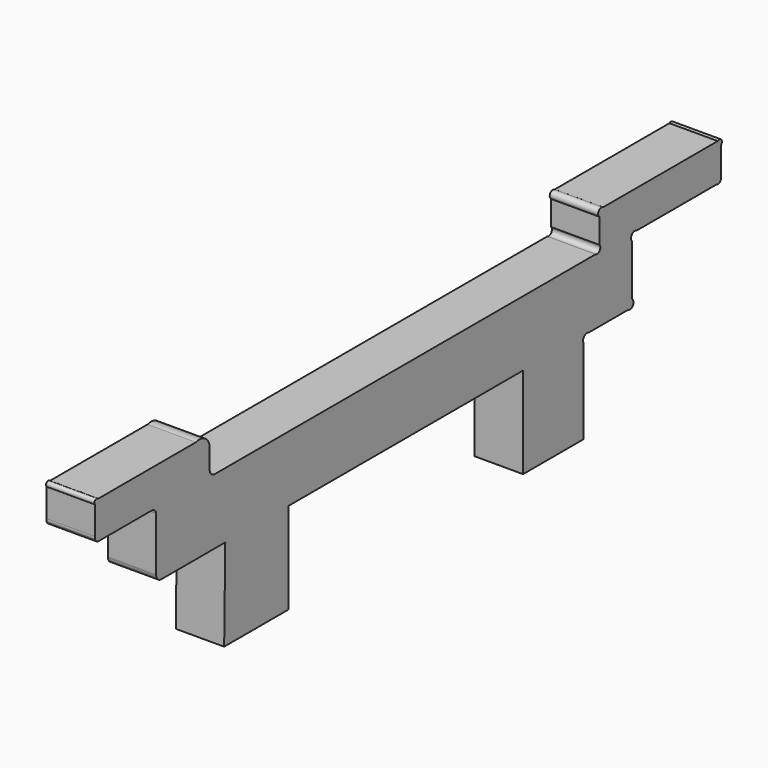
from build123d import *

# Parameters (mm, degrees)
F1_DEPTH = 2.8


with BuildPart() as f1:
    # F0 (on Right) → F1 (new body)
    with BuildSketch(Plane.YZ):
        with BuildLine():
            Line((-26.111206, 5.284752), (-26.191802, 0))
            Line((-26.191802, 0), (-21.517237, 0))
            Line((-21.517237, 0), (-21.517237, 5.284752))
            Line((-21.517237, 5.284752), (-4.5604, 5.284752))
            Line((-4.5604, 5.284752), (-4.5604, 0))
            Line((-4.5604, 0), (-0.191802, 0))
            Line((-0.191802, 0), (-0.191802, 4.923995))
            ThreePointArc((-0.191802, 4.923995), (-0.132906, 5.235764), (0.180573, 5.284752))
            Line((0.180573, 5.284752), (3.02158, 5.284752))
            ThreePointArc((3.02158, 5.284752), (3.386548, 5.364985), (3.306315, 5.729954))
            Line((3.306315, 5.729954), (3.306315, 8.671706))
            ThreePointArc((3.306315, 8.671706), (3.3285, 9.0314), (3.686496, 9.072762))
            Line((3.686496, 9.072762), (9.408809, 9.072762))
            ThreePointArc((9.408809, 9.072762), (9.699169, 9.109567), (9.753991, 9.39707))
            Line((9.753991, 9.39707), (9.753991, 10.948542))
            ThreePointArc((9.753991, 10.948542), (9.792001, 11.210841), (9.529702, 11.248852))
            Line((9.529702, 11.248852), (2.258568, 11.248852))
            Line((2.258568, 11.248852), (1.22832, 11.248852))
            ThreePointArc((1.22832, 11.248852), (0.908223, 11.188042), (0.969033, 10.867945))
            Line((0.969033, 10.867945), (0.969033, 9.437368))
            ThreePointArc((0.969033, 9.437368), (0.978366, 9.136595), (0.684297, 9.072762))
            Line((0.684297, 9.072762), (-26.857296, 9.072762))
            ThreePointArc((-26.857296, 9.072762), (-26.867436, 9.072625), (-26.877575, 9.072762))
            ThreePointArc((-26.877575, 9.072762), (-27.118402, 9.168825), (-27.239549, 9.398061))
            ThreePointArc((-27.239549, 9.398061), (-27.242897, 9.448086), (-27.239549, 9.498111))
            Line((-27.239549, 9.498111), (-27.239549, 10.646189))
            ThreePointArc((-27.239549, 10.646189), (-27.404115, 11.017522), (-27.737966, 11.248852))
            Line((-27.737966, 11.248852), (-28.227659, 11.248852))
            Line((-28.227659, 11.248852), (-35.302914, 11.248852))
            ThreePointArc((-35.302914, 11.248852), (-35.522633, 11.267151), (-35.540933, 11.047432))
            Line((-35.540933, 11.047432), (-35.540933, 9.410823))
            Line((-35.540933, 9.410823), (-35.540933, 9.282929))
            ThreePointArc((-35.540933, 9.282929), (-35.455206, 9.140153), (-35.302914, 9.072762))
            Line((-35.302914, 9.072762), (-31.523069, 9.072762))
            ThreePointArc((-31.523069, 9.072762), (-31.44012, 9.083231), (-31.357172, 9.072762))
            ThreePointArc((-31.357172, 9.072762), (-31.187614, 8.967777), (-31.108157, 8.784861))
            ThreePointArc((-31.108157, 8.784861), (-31.106266, 8.749376), (-31.108157, 8.713891))
            Line((-31.108157, 8.713891), (-31.108157, 5.670374))
            Line((-31.108157, 5.670374), (-31.108157, 5.63826))
            ThreePointArc((-31.108157, 5.63826), (-30.999114, 5.391756), (-30.75172, 5.284752))
            Line((-30.75172, 5.284752), (-26.111206, 5.284752))
        make_face()
        with BuildLine():
            ThreePointArc((-31.108157, 5.670374), (-31.108506, 5.654317), (-31.108157, 5.63826))
            Line((-31.108157, 5.63826), (-31.108157, 5.670374))
        make_face()
        with BuildLine():
            Line((-31.108157, 8.784861), (-31.108157, 8.713891))
            ThreePointArc((-31.108157, 8.713891), (-31.106266, 8.749376), (-31.108157, 8.784861))
        make_face()
        with BuildLine():
            Line((-31.523069, 9.072762), (-31.357172, 9.072762))
            ThreePointArc((-31.357172, 9.072762), (-31.44012, 9.083231), (-31.523069, 9.072762))
        make_face()
        with BuildLine():
            ThreePointArc((-35.540933, 9.410823), (-35.548449, 9.346876), (-35.540933, 9.282929))
            Line((-35.540933, 9.282929), (-35.540933, 9.410823))
        make_face()
        with BuildLine():
            ThreePointArc((-27.737966, 11.248852), (-27.982812, 11.289888), (-28.227659, 11.248852))
            Line((-28.227659, 11.248852), (-27.737966, 11.248852))
        make_face()
        with BuildLine():
            Line((-27.239549, 9.398061), (-27.239549, 9.498111))
            ThreePointArc((-27.239549, 9.498111), (-27.242897, 9.448086), (-27.239549, 9.398061))
        make_face()
        with BuildLine():
            Line((-26.857296, 9.072762), (-26.877575, 9.072762))
            ThreePointArc((-26.877575, 9.072762), (-26.867436, 9.072625), (-26.857296, 9.072762))
        make_face()
    extrude(amount=F1_DEPTH)


solid = f1.part
